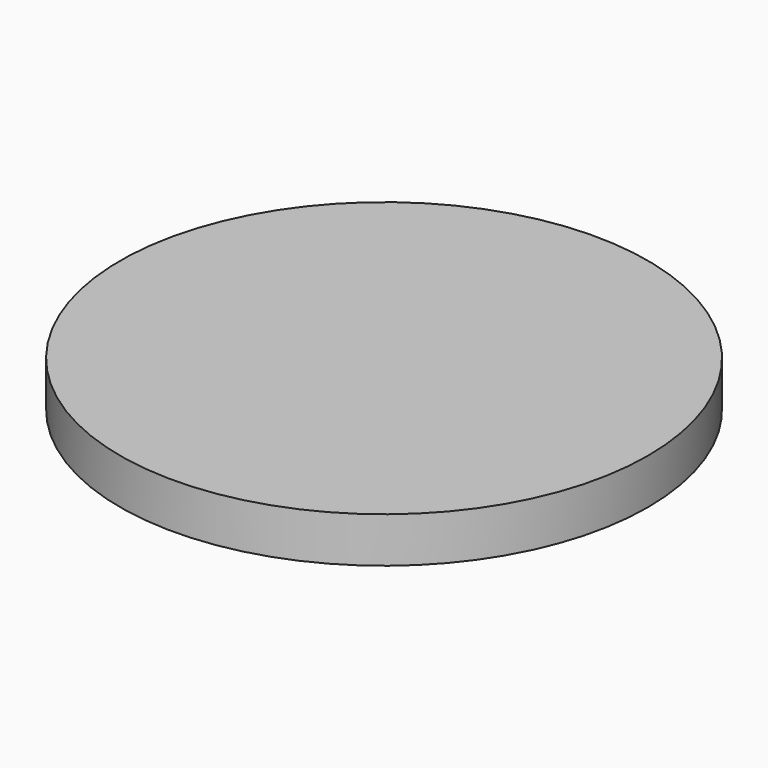
from build123d import *

# Parameters (mm, degrees)
F0_R     = 55.419343
F1_DEPTH = 9.525


with BuildPart() as f1:
    # F0 (on Top) → F1 (new body)
    with BuildSketch(Plane.XY):
        with Locations((2.206641, 0)):
            Circle(F0_R)
    extrude(amount=-F1_DEPTH)


solid = f1.part
